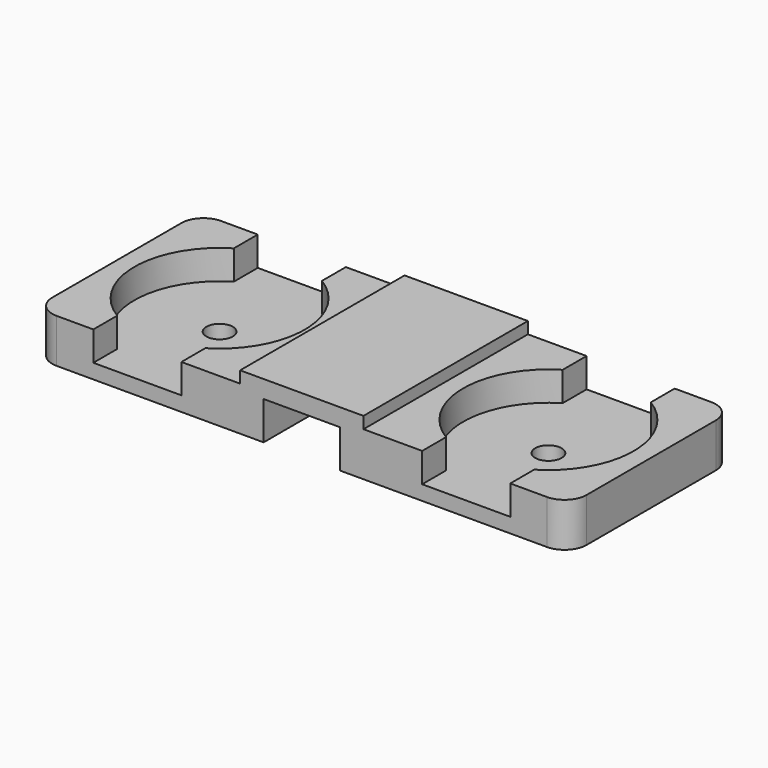
from build123d import *

# Parameters (mm, degrees)
PAD_DEPTH       = 7
SKETCH006_W     = 14
SKETCH006_H     = 14
PAD002_DEPTH    = 3
POCKET004_DEPTH = 2
SKETCH008_R     = 0.9
POCKET005_DEPTH = 1.001
FILLET001_R     = 1.5


with BuildPart() as clamp_unit001:
    # Sketch → Pad (new body, symmetric)
    with BuildSketch(Plane.XZ):
        Polygon((-2.6, 3.8), (4.2, 3.8), (4.2, 0), (2.6, 0), (2.6, 2.6), (-2.6, 2.6), (-2.6, 0), (-4.2, 0), (-4.2, 3.8), align=None)
    extrude(amount=PAD_DEPTH, both=True)


with BuildPart() as obj1:
    # Sketch006 → Pad002 (new body)
    with BuildSketch(Plane.XY):
        Rectangle(SKETCH006_W, SKETCH006_H)
    extrude(amount=PAD002_DEPTH)

    # Sketch007 → Pocket004 (cut)
    with BuildSketch(Plane.XY.offset(3)):
        with BuildLine():
            Line((-3, 7), (-3, 4.963869))
            ThreePointArc((-3, 4.963869), (-5.8, 0), (-3, -4.963869))
            Line((-3, -7), (-3, -4.963869))
            Line((3, -7), (-3, -7))
            Line((3, -4.963869), (3, -7))
            ThreePointArc((3, -4.963869), (5.8, 0), (3, 4.963869))
            Line((3, 7), (3, 4.963869))
            Line((-3, 7), (3, 7))
        make_face()
    extrude(amount=-POCKET004_DEPTH, mode=Mode.SUBTRACT)

    # Sketch008 → Pocket005 (cut, through all)
    with BuildSketch(Plane.XY.offset(1)):
        Circle(SKETCH008_R)
    extrude(amount=-POCKET005_DEPTH, mode=Mode.SUBTRACT)


with BuildPart() as obj1_1:
    # Clone placement: moved
    add(obj1.part.moved(Location((-11.2, 0, 0))))


with BuildPart() as obj2:
    # Clone004 base: copy of obj1
    add(obj1_1.part)


with BuildPart() as obj2_1:
    # Clone004 placement: moved
    add(obj2.part.moved(Location((22.4, 0, 0))))


with BuildPart() as clone_of_wire_holder_double:
    # Fusion001 base: copy of obj1
    add(obj1_1.part)

    # Fusion001: union clamp-unit001, obj2
    add(clamp_unit001.part)
    add(obj2_1.part)

    # Fillet001
    fillet001_edges = [clone_of_wire_holder_double.edges().sort_by_distance(p)[0] for p in [
        (-18.2, 7, 1.5),
        (18.2, 7, 1.5),
        (-18.2, -7, 1.5),
        (18.2, -7, 1.5),
    ]]
    fillet(fillet001_edges, radius=FILLET001_R)


with BuildPart() as clone_of_wire_holder_double_1:
    # Clone007 placement: moved
    add(clone_of_wire_holder_double.part.moved(Location((35.472096, 29.030871, 0))))


with BuildPart() as clone_of_wire_holder_double_2:
    # Clone001004 placement: moved
    add(clone_of_wire_holder_double_1.part.moved(Location((-23.02183, -12.928266, 39))))


solid = clone_of_wire_holder_double_2.part
